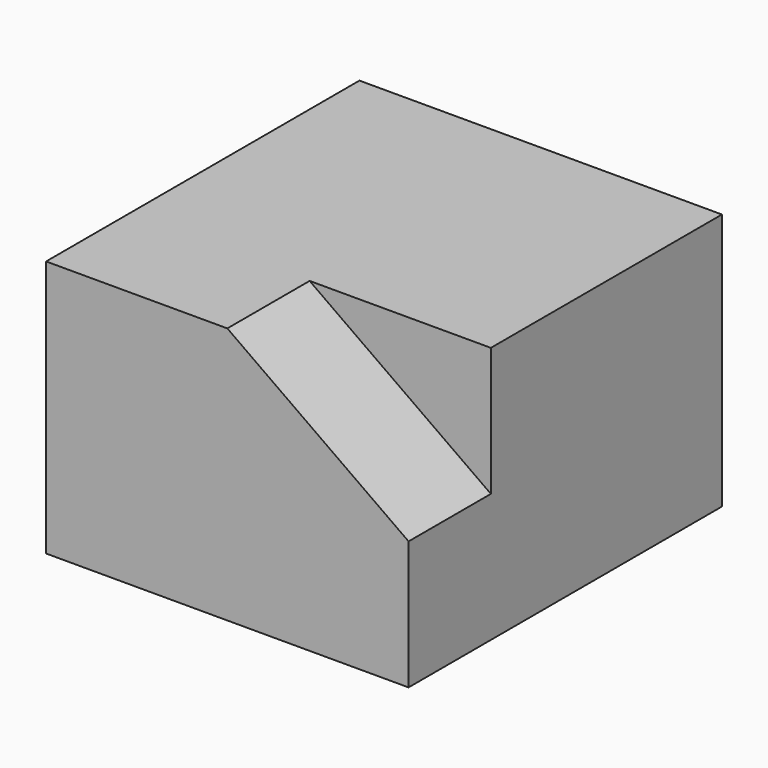
from build123d import *

# Parameters (mm, degrees)
F0_W     = 35.243742
F0_H     = 38.081205
F1_DEPTH = 25
F3_DEPTH = 10


with BuildPart() as f1:
    # F0 (on Top) → F1 (new body)
    with BuildSketch(Plane.XY):
        with Locations((-115.13764, -43.502171)):
            Rectangle(F0_W, F0_H)
    extrude(amount=F1_DEPTH)

    # F2 (on face) → F3 (cut)
    with BuildSketch(Plane.XZ.offset(62.542774)):
        Polygon((-115.13764, 25), (-97.515769, 12.5), (-97.515769, 25), align=None)
    extrude(amount=-F3_DEPTH, mode=Mode.SUBTRACT)


solid = f1.part
